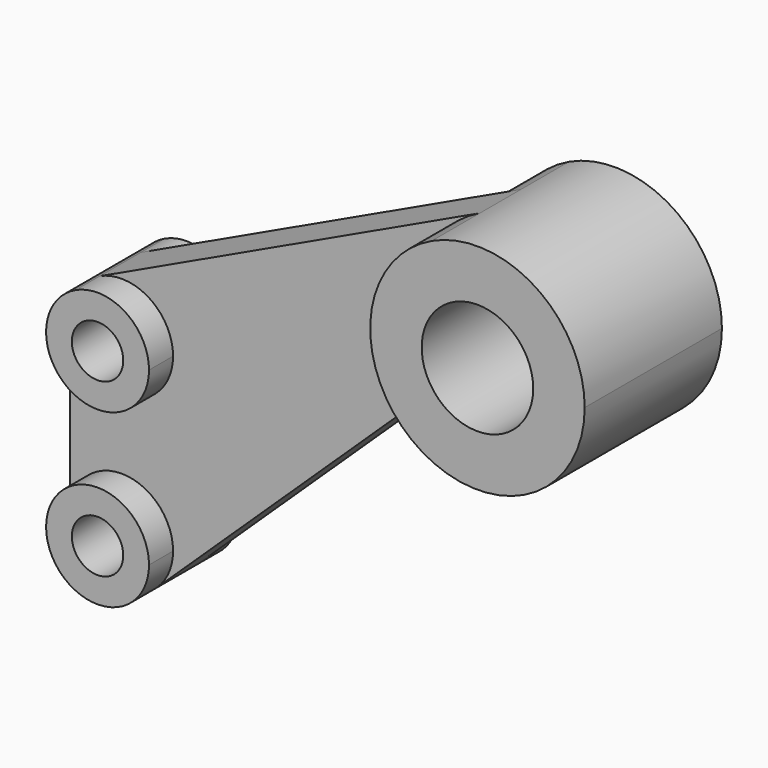
from build123d import *

# Parameters (mm, degrees)
F0_R     = 13.0048
F1_DEPTH = 20.0025
F2_DEPTH = 5.9944
F0_R_2   = 5.9944
F3_DEPTH = 13.0048


with BuildPart() as f1:
    # F0 (on Front) → F1 (new body, symmetric)
    with BuildSketch(Plane.XZ):
        with BuildLine():
            ThreePointArc((-12.949346, -21.392276), (12.278025, -21.784516), (25.0063, 0))
            ThreePointArc((25.0063, 0), (13.394448, 21.116434), (-10.657017, 22.621738))
            ThreePointArc((-10.657017, 22.621738), (-24.972454, 1.300611), (-12.949346, -21.392276))
        make_face()
        Circle(F0_R, mode=Mode.SUBTRACT)
    extrude(amount=F1_DEPTH, both=True)

    # F0 (on Front) → F2 (join, symmetric)
    with BuildSketch(Plane.XZ):
        with BuildLine():
            ThreePointArc((-12.949346, -21.392276), (-24.972454, 1.300611), (-10.657017, 22.621738))
            Line((-10.657017, 22.621738), (-99.305738, -19.140344))
            ThreePointArc((-99.305738, -19.140344), (-87.7625, -19.862798), (-82.189519, -29.9974))
            ThreePointArc((-82.189519, -29.9974), (-94.191019, -41.9989), (-106.192519, -29.9974))
            Line((-106.192519, -29.9974), (-106.192519, -70.0024))
            ThreePointArc((-106.192519, -70.0024), (-94.191019, -58.0009), (-82.189519, -70.0024))
            ThreePointArc((-82.189519, -70.0024), (-83.15941, -74.728879), (-85.912321, -78.691425))
            Line((-85.912321, -78.691425), (-27.427604, -22.968569))
            ThreePointArc((-27.427604, -22.968569), (-20.455258, -19.730028), (-12.949346, -21.392276))
        make_face()
    extrude(amount=F2_DEPTH, both=True)

    # F0 (on Front) → F3 (join, symmetric)
    with BuildSketch(Plane.XZ):
        with BuildLine():
            ThreePointArc((-82.189519, -29.9974), (-87.7625, -19.862798), (-99.305738, -19.140344))
            ThreePointArc((-99.305738, -19.140344), (-104.325621, -23.568881), (-106.192519, -29.9974))
            ThreePointArc((-106.192519, -29.9974), (-94.191019, -41.9989), (-82.189519, -29.9974))
        make_face()
        with Locations((-94.191019, -29.9974)):
            Circle(F0_R_2, mode=Mode.SUBTRACT)
        with BuildLine():
            ThreePointArc((-106.192519, -70.0024), (-98.917498, -81.034009), (-85.912321, -78.691425))
            ThreePointArc((-85.912321, -78.691425), (-83.15941, -74.728879), (-82.189519, -70.0024))
            ThreePointArc((-82.189519, -70.0024), (-94.191019, -58.0009), (-106.192519, -70.0024))
        make_face()
        with Locations((-94.191019, -70.0024)):
            Circle(F0_R_2, mode=Mode.SUBTRACT)
    extrude(amount=F3_DEPTH, both=True)


solid = f1.part
